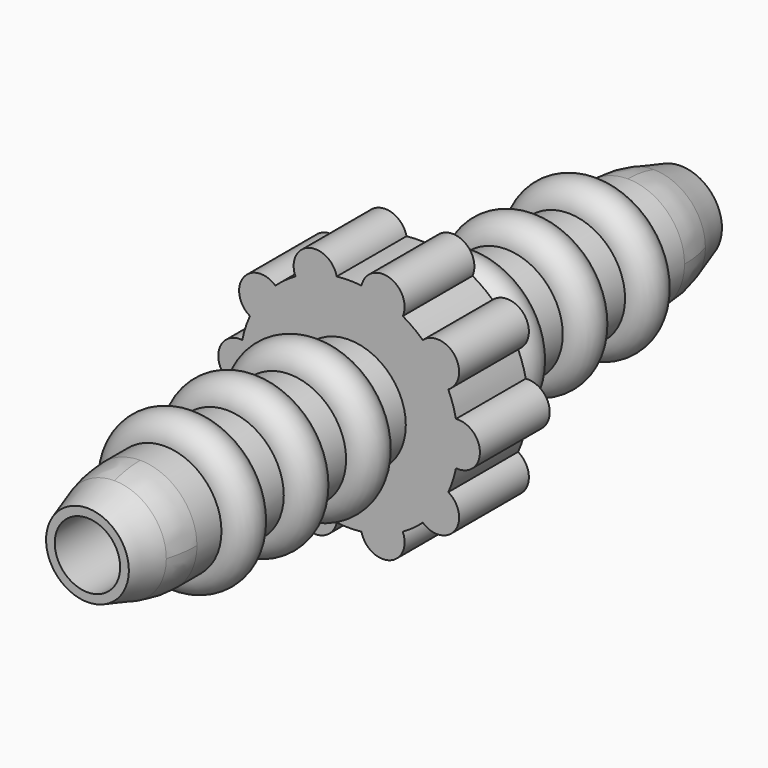
from build123d import *

# Parameters (mm, degrees)
F0_R     = 2.6
F0_R_2   = 1.5
F1_DEPTH = 17
F2_DEPTH = 2
F3_R     = 1
F7_R     = 5


with BuildPart() as f1:
    # F0 (on Front) → F1 (new body, symmetric)
    with BuildSketch(Plane.XZ):
        Circle(F0_R)
        Circle(F0_R_2, mode=Mode.SUBTRACT)
    extrude(amount=F1_DEPTH, both=True)

    # F0 (on Front) → F2 (join, symmetric)
    with BuildSketch(Plane.XZ):
        with BuildLine():
            ThreePointArc((-4.9, 0.9949874371), (-6, 0), (-4.9, -0.9949874371))
            ThreePointArc((-4.9, -0.9949874371), (-4.7552825815, -1.5450849719), (-4.5490222142, -2.0751859904))
            ThreePointArc((-4.5490222142, -2.0751859904), (-4.8541019662, -3.5267115138), (-3.3793443307, -3.685109482))
            ThreePointArc((-3.3793443307, -3.685109482), (-2.9389262615, -4.0450849719), (-2.4604725581, -4.3527089026))
            ThreePointArc((-2.4604725581, -4.3527089026), (-1.8541019662, -5.7063390978), (-0.5678939867, -4.9676449571))
            ThreePointArc((-0.5678939867, -4.9676449571), (0, -5), (0.5678939867, -4.9676449571))
            ThreePointArc((0.5678939867, -4.9676449571), (1.8541019662, -5.7063390978), (2.4604725581, -4.3527089026))
            ThreePointArc((2.4604725581, -4.3527089026), (2.9389262615, -4.0450849719), (3.3793443307, -3.685109482))
            ThreePointArc((3.3793443307, -3.685109482), (4.8541019662, -3.5267115138), (4.5490222142, -2.0751859904))
            ThreePointArc((4.5490222142, -2.0751859904), (4.7552825815, -1.5450849719), (4.9, -0.9949874371))
            ThreePointArc((4.9, -0.9949874371), (6, 0), (4.9, 0.9949874371))
            ThreePointArc((4.9, 0.9949874371), (4.7552825815, 1.5450849719), (4.5490222142, 2.0751859904))
            ThreePointArc((4.5490222142, 2.0751859904), (4.8541019662, 3.5267115138), (3.3793443307, 3.685109482))
            ThreePointArc((3.3793443307, 3.685109482), (2.9389262615, 4.0450849719), (2.4604725581, 4.3527089026))
            ThreePointArc((2.4604725581, 4.3527089026), (1.8541019662, 5.7063390978), (0.5678939867, 4.9676449571))
            ThreePointArc((0.5678939867, 4.9676449571), (0, 5), (-0.5678939867, 4.9676449571))
            ThreePointArc((-0.5678939867, 4.9676449571), (-1.8541019662, 5.7063390978), (-2.4604725581, 4.3527089026))
            ThreePointArc((-2.4604725581, 4.3527089026), (-2.9389262615, 4.0450849719), (-3.3793443307, 3.685109482))
            ThreePointArc((-3.3793443307, 3.685109482), (-4.8541019662, 3.5267115138), (-4.5490222142, 2.0751859904))
            ThreePointArc((-4.5490222142, 2.0751859904), (-4.7552825815, 1.5450849719), (-4.9, 0.9949874371))
        make_face()
        Circle(F0_R, mode=Mode.SUBTRACT)
    extrude(amount=F2_DEPTH, both=True)

    # F3 (on Right) → F4 (revolve)
    with BuildSketch(Plane.YZ):
        with Locations((-11.5692866966, 2.5685280561)):
            Circle(F3_R)
        with Locations((-7.9963030294, 2.5685280561)):
            Circle(F3_R)
        with Locations((-4.4233193621, 2.5685280561)):
            Circle(F3_R)
        with Locations((4.4233193621, 2.5685280561)):
            Circle(F3_R)
        with Locations((7.9963030294, 2.5685280561)):
            Circle(F3_R)
        with Locations((11.5692866966, 2.5685280561)):
            Circle(F3_R)
    revolve(axis=Axis((0, -2.136901297, 0), (0, -1, 0)))

    # F5 (on Right) → F6 (revolve, cut)
    with BuildSketch(Plane.YZ):
        Polygon((-18.825834617, 3.0165507924), (-18.825834617, 1.3341745362), (-13.3828520775, 3.0165507924), align=None)
        Polygon((18.825834617, 1.3341745362), (18.825834617, 3.0165507924), (13.3828520775, 3.0165507924), align=None)
    revolve(axis=Axis((0, -0.1465082169, 0), (0, 1, 0)), mode=Mode.SUBTRACT)

    # F7
    f7_edges = [f1.edges().sort_by_distance(p)[0] for p in [
        (-1.838478, 14.730517, -1.838478),
        (1.838478, 14.730517, 1.838478),
        (1.838478, -14.730517, 1.838478),
        (-1.838478, -14.730517, -1.838478),
    ]]
    fillet(f7_edges, radius=F7_R)


solid = f1.part
